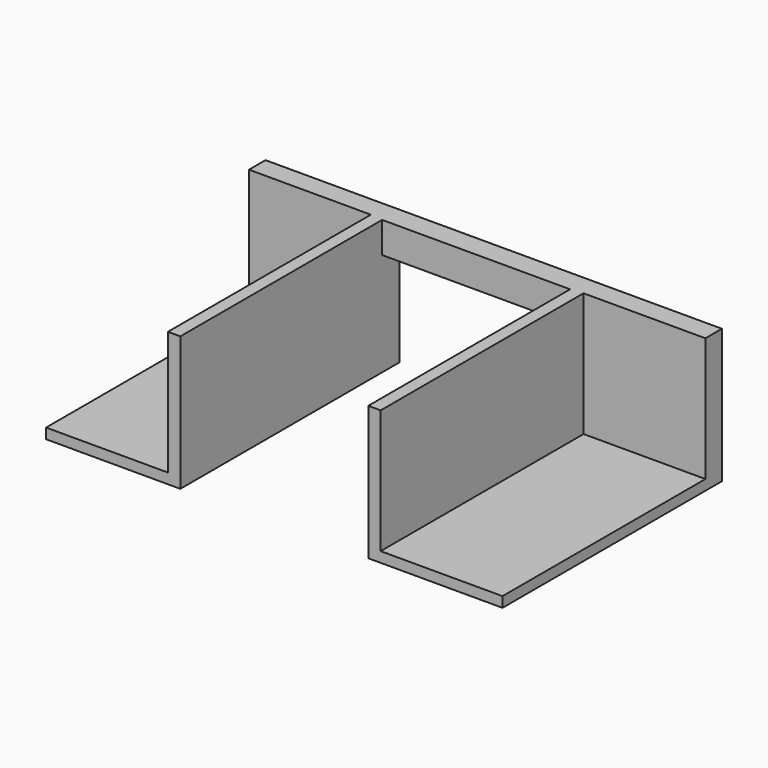
from build123d import *

# Parameters (mm, degrees)
F1_DEPTH = 6.5
F2_DEPTH = 30
F3_DEPTH = 2.5
F0_W     = 29.5
F0_H     = 61.4
F4_DEPTH = 2.5
F5_W     = 45.5
F5_H     = 5.322864
F6_DEPTH = 25


with BuildPart() as f1:
    # F0 (on Top) → F1 (new body)
    with BuildSketch(Plane.XY):
        Polygon((-58.032156, 36.652669), (-58.032156, 30.152669), (-64.532156, 30.152669), (-64.532156, 23.652669), (-58.032156, 23.652669), (-58.032156, 17.152669), (-64.532156, 17.152669), (-64.532156, 10.652669), (-58.032156, 10.652669), (-58.032156, 4.152669), (-64.532156, 4.152669), (-64.532156, -2.347331), (-58.032156, -2.347331), (-58.032156, -8.847331), (-64.532156, -8.847331), (-64.532156, -15.347331), (-58.032156, -15.347331), (-58.032156, -21.847331), (-64.532156, -21.847331), (-64.532156, -28.347331), (-58.032156, -28.347331), (-58.032156, -34.847331), (-64.532156, -34.847331), (-64.532156, -41.347331), (-58.032156, -41.347331), (-58.032156, -53.445331), (58.967844, -53.445331), (58.967844, -41.347331), (65.467844, -41.347331), (65.467844, -34.847331), (58.967844, -34.847331), (58.967844, -28.347331), (65.467844, -28.347331), (65.467844, -21.847331), (58.967844, -21.847331), (58.967844, -15.347331), (65.467844, -15.347331), (65.467844, -8.847331), (58.967844, -8.847331), (58.967844, -2.347331), (65.467844, -2.347331), (65.467844, 4.152669), (58.967844, 4.152669), (58.967844, 10.652669), (65.467844, 10.652669), (65.467844, 17.152669), (58.967844, 17.152669), (58.967844, 23.652669), (58.967844, 30.152669), (52.467844, 30.152669), (52.467844, 36.652669), (45.967844, 36.652669), (45.967844, 30.152669), (39.467844, 30.152669), (39.467844, 36.652669), (32.967844, 36.652669), (32.967844, 30.152669), (26.467844, 30.152669), (26.467844, 36.652669), (19.967844, 36.652669), (19.967844, 30.152669), (13.467844, 30.152669), (13.467844, 36.652669), (6.967844, 36.652669), (6.967844, 30.152669), (0.467844, 30.152669), (0.467844, 36.652669), (-6.032156, 36.652669), (-6.032156, 30.152669), (-12.532156, 30.152669), (-12.532156, 36.652669), (-19.032156, 36.652669), (-19.032156, 30.152669), (-25.532156, 30.152669), (-25.532156, 36.652669), (-32.032156, 36.652669), (-32.032156, 30.152669), (-38.532156, 30.152669), (-38.532156, 36.652669), (-45.032156, 36.652669), (-45.032156, 30.152669), (-51.532156, 30.152669), (-51.532156, 36.652669), align=None)
    extrude(amount=F1_DEPTH)


with BuildPart() as f2:
    # F0 (on Top) → F2 (new body)
    with BuildSketch(Plane.XY):
        Polygon((224.515274, 15.340945), (114.015274, 15.340945), (114.015274, 10.340945), (143.515274, 10.340945), (143.515274, -51.059055), (146.515274, -51.059055), (146.515274, 10.018081), (192.015274, 10.018081), (192.015274, -51.059055), (195.015274, -51.059055), (195.015274, 10.340945), (224.515274, 10.340945), align=None)
    extrude(amount=F2_DEPTH)

    # F2_face (on face) → F3 (join)
    with BuildSketch(Plane(origin=(169.265274, -0.273746, 0), x_dir=(1, 0, 0), z_dir=(0, 0, -1))):
        Polygon((55.25, -10.614691), (25.75, -10.614691), (25.75, 50.785309), (22.75, 50.785309), (22.75, -10.291827), (-22.75, -10.291827), (-22.75, 50.785309), (-25.75, 50.785309), (-25.75, -10.614691), (-55.25, -10.614691), (-55.25, -15.614691), (55.25, -15.614691), align=None)
    extrude(amount=F3_DEPTH)

    # F0 (on Top) → F4 (join)
    with BuildSketch(Plane.XY):
        with Locations((209.765274, -20.359055)):
            Rectangle(F0_W, F0_H)
        with Locations((128.765274, -20.359055)):
            Rectangle(F0_W, F0_H)
    extrude(amount=-F4_DEPTH)

    # F5 (on face) → F6 (cut)
    with BuildSketch(Plane(origin=(0, 0, -2.5), x_dir=(1, 0, 0), z_dir=(0, 0, -1))):
        with Locations((169.265274, -12.679513)):
            Rectangle(F5_W, F5_H)
    extrude(amount=-F6_DEPTH, mode=Mode.SUBTRACT)


with BuildPart() as f7_1:
    # F7: copy of F2
    add(f2.part)


solid = f7_1.part
